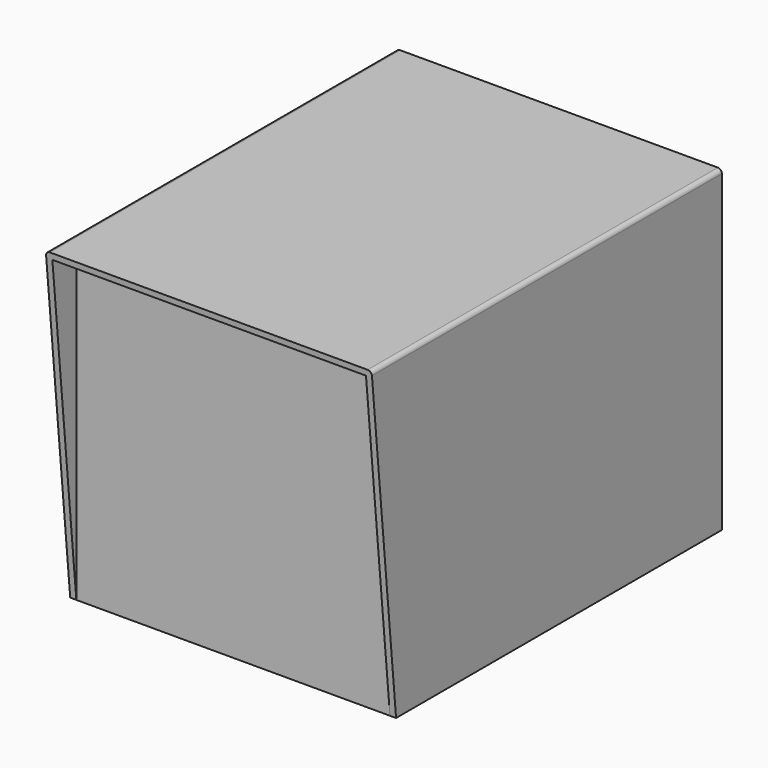
from build123d import *

# Parameters (mm, degrees)
F1_DEPTH = 320
F2_W     = 308
F2_H     = 30
F3_DEPTH = 306
F4_R     = 4


with BuildPart() as f1:
    # F0 (on Right) → F1 (new body)
    with BuildSketch(Plane.YZ):
        Polygon((0, -312), (0, 0), (-430, 0), (-400, -312), align=None)
    extrude(amount=F1_DEPTH)

    # F2 (on face) → F3 (cut, through all)
    with BuildSketch(Plane(origin=(0, 0, -312), x_dir=(1, 0, 0), z_dir=(0, 0, -1))):
        with Locations((160, 415)):
            Rectangle(F2_W, F2_H)
    extrude(amount=-F3_DEPTH, mode=Mode.SUBTRACT)

    # F4
    f4_edges = [f1.edges().sort_by_distance(p)[0] for p in [
        (0, -215, 0),
        (320, -215, 0),
    ]]
    fillet(f4_edges, radius=F4_R)


solid = f1.part
